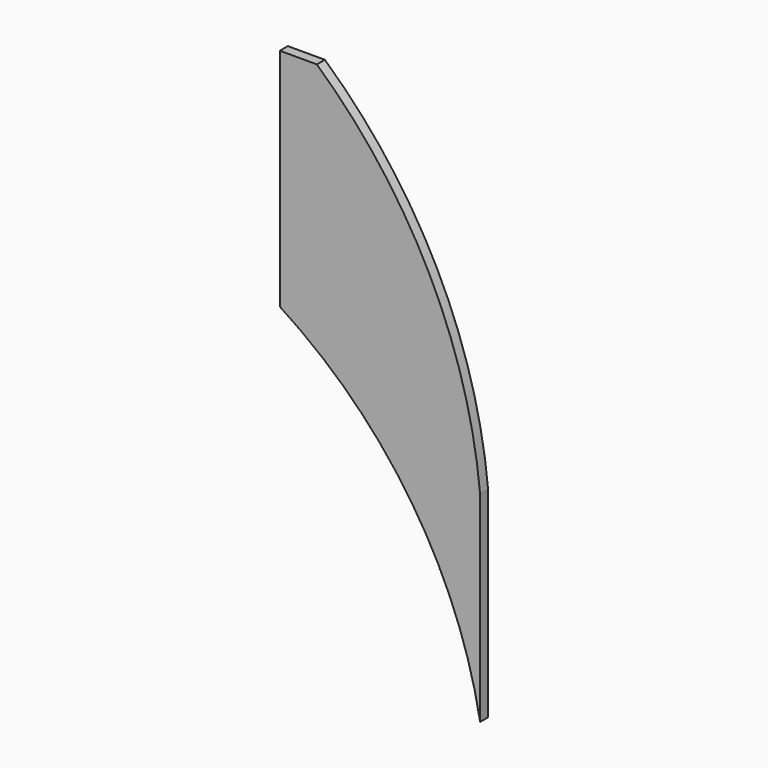
from build123d import *

# Parameters (mm, degrees)
F1_DEPTH = 2


with BuildPart() as f1:
    # F0 (on Front) → F1 (new body)
    with BuildSketch(Plane.XZ):
        with BuildLine():
            Line((0, 45), (0, 0))
            ThreePointArc((0, 0), (26.271902, -25.818732), (40, -60))
            Line((40, -60), (40, -20))
            ThreePointArc((40, -20), (29.813001, 15.569354), (7.39, 45))
            Line((7.39, 45), (0, 45))
        make_face()
    extrude(amount=F1_DEPTH)


solid = f1.part
